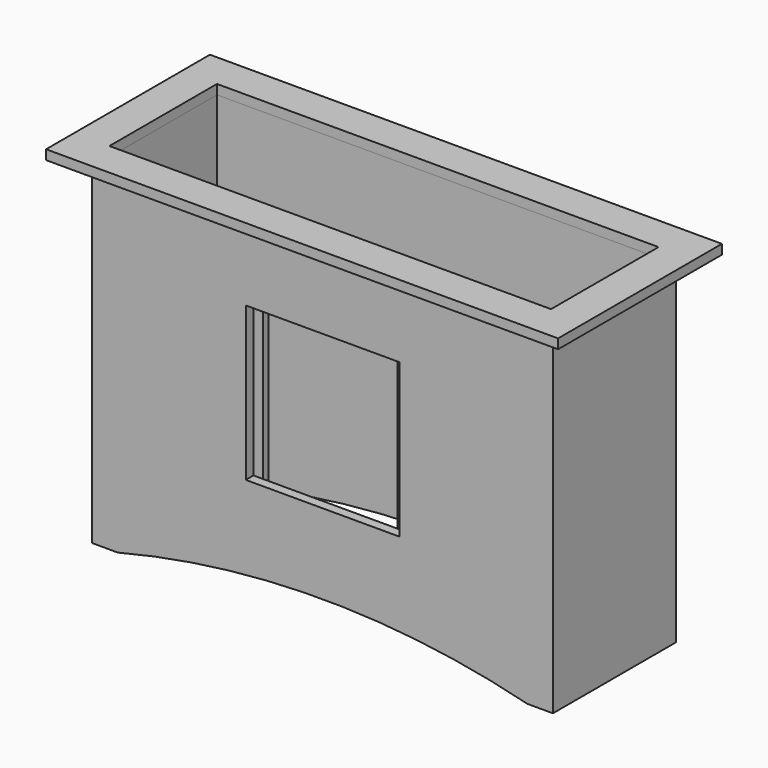
from build123d import *

# Parameters (mm, degrees)
F1_DEPTH  = 304.8
F2_W      = 876.3
F2_H      = 266.7
F3_DEPTH  = 673.101
F4_W      = 152.4
F4_H      = 304.8
F5_DEPTH  = 25.4
F6_W      = 38.1
F6_H      = 330.2
F7_DEPTH  = 12.7
F8_W      = 1016
F8_H      = 406.4
F8_W_2    = 876.3
F8_H_2    = 266.7
F9_DEPTH  = 19.05
F10_W     = 31.75
F10_H     = 31.75
F10_R     = 6.35
F11_DEPTH = 50.8


with BuildPart() as f1:
    # F0 (on Front) → F1 (new body)
    with BuildSketch(Plane.XZ):
        with BuildLine():
            Line((-457.2, -336.55), (-406.4, -336.55))
            ThreePointArc((-406.4, -336.55), (0, -285.75), (406.4, -336.55))
            Line((406.4, -336.55), (457.2, -336.55))
            Line((457.2, -336.55), (457.2, 336.55))
            Line((457.2, 336.55), (-457.2, 336.55))
            Line((-457.2, 336.55), (-457.2, -336.55))
        make_face()
    extrude(amount=-F1_DEPTH)

    # F2 (on face) → F3 (cut, through all)
    with BuildSketch(Plane.XY.offset(336.55)):
        with Locations((0, 152.4)):
            Rectangle(F2_W, F2_H)
    extrude(amount=-F3_DEPTH, mode=Mode.SUBTRACT)

    # F4 (on face) → F5 (cut)
    with BuildSketch(Plane.XZ):
        with Locations((76.2, 25.4)):
            Rectangle(F4_W, F4_H)
        with Locations((-76.2, 25.4)):
            Rectangle(F4_W, F4_H)
    extrude(amount=-F5_DEPTH, mode=Mode.SUBTRACT)


with BuildPart() as f7:
    # F6 (on face) → F7 (new body)
    with BuildSketch(Plane(origin=(0, 19.05, 0), x_dir=(-1, 0, 0), z_dir=(0, 1, 0))):
        with Locations((152.1968, 25.4)):
            Rectangle(F6_W, F6_H)
        with Locations((-152.4, 25.4)):
            Rectangle(F6_W, F6_H)
    extrude(amount=F7_DEPTH)


with BuildPart() as f9:
    # F8 (on face) → F9 (new body)
    with BuildSketch(Plane.XY.offset(336.55)):
        with Locations((0, 152.4)):
            Rectangle(F8_W, F8_H)
        with Locations((0, 152.4)):
            Rectangle(F8_W_2, F8_H_2, mode=Mode.SUBTRACT)
    extrude(amount=F9_DEPTH)


with BuildPart() as f11:
    # F10 (on face) → F11 (new body)
    with BuildSketch(Plane(origin=(0, 0, -336.55), x_dir=(1, 0, 0), z_dir=(0, 0, -1))):
        with Locations((-422.275, -34.925)):
            Rectangle(F10_W, F10_H)
        with Locations((-422.275, -34.925)):
            Circle(F10_R, mode=Mode.SUBTRACT)
        with Locations((-422.275, -269.875)):
            Rectangle(F10_W, F10_H)
        with Locations((-422.275, -269.875)):
            Circle(F10_R, mode=Mode.SUBTRACT)
        with Locations((422.275, -34.925)):
            Rectangle(F10_W, F10_H)
        with Locations((422.275, -34.925)):
            Circle(F10_R, mode=Mode.SUBTRACT)
        with Locations((422.275, -269.875)):
            Rectangle(F10_W, F10_H)
        with Locations((422.275, -269.875)):
            Circle(F10_R, mode=Mode.SUBTRACT)
    extrude(amount=-F11_DEPTH)


solid = Compound([f1.part, f7.part, f9.part, f11.part])
